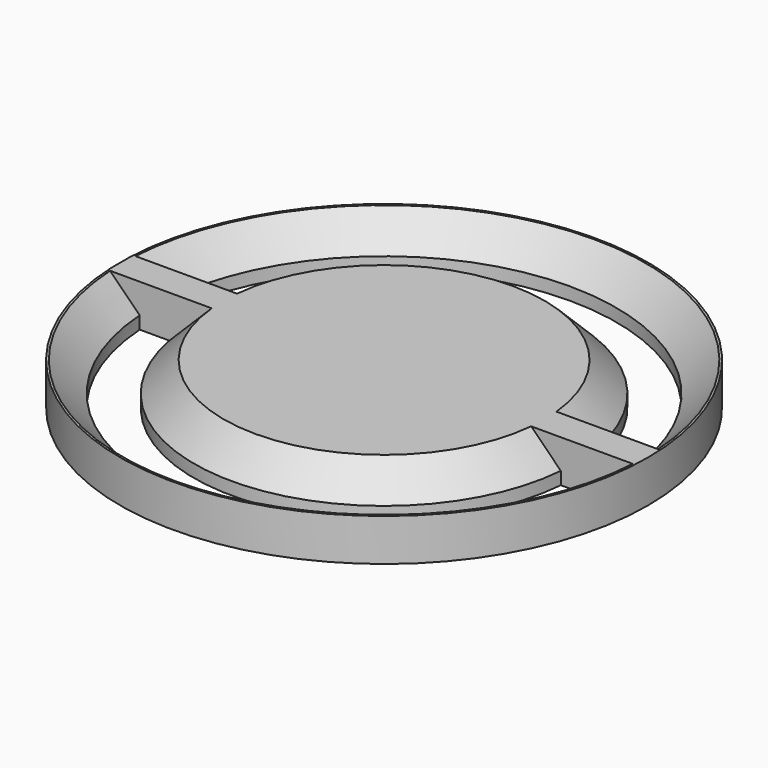
from build123d import *

# Parameters (mm, degrees)
SKETCH_R        = 12.5
PAD_DEPTH       = 2
CHAMFER_SIZE    = 1.4
CHAMFER001_SIZE = 1.4


with BuildPart() as part:
    # Sketch (on XY_Plane of Origin) → Pad (new body)
    with BuildSketch(Plane.XY):
        Circle(SKETCH_R)
        with BuildLine():
            ThreePointArc((-8.968696, -0.75), (0, -9), (8.968696, -0.75))
            Line((8.968696, -0.75), (10.974402, -0.75))
            ThreePointArc((-10.974402, -0.75), (0, -11), (10.974402, -0.75))
            Line((-10.974402, -0.75), (-8.968696, -0.75))
        make_face(mode=Mode.SUBTRACT)
        with BuildLine():
            Line((-10.974402, 0.75), (-8.968696, 0.75))
            ThreePointArc((8.968696, 0.75), (0, 9), (-8.968696, 0.75))
            Line((8.968696, 0.75), (10.974402, 0.75))
            ThreePointArc((10.974402, 0.75), (0, 11), (-10.974402, 0.75))
        make_face(mode=Mode.SUBTRACT)
    extrude(amount=PAD_DEPTH)

    # Chamfer
    chamfer_edges = [part.edges().sort_by_distance(p)[0] for p in [
        (0, -9, 2),
        (0, 9, 2),
    ]]
    chamfer(chamfer_edges, length=CHAMFER_SIZE)

    # Chamfer001
    chamfer001_edges = [part.edges().sort_by_distance(p)[0] for p in [
        (0, -11, 2),
        (0, 11, 2),
    ]]
    chamfer(chamfer001_edges, length=CHAMFER001_SIZE)


solid = part.part
